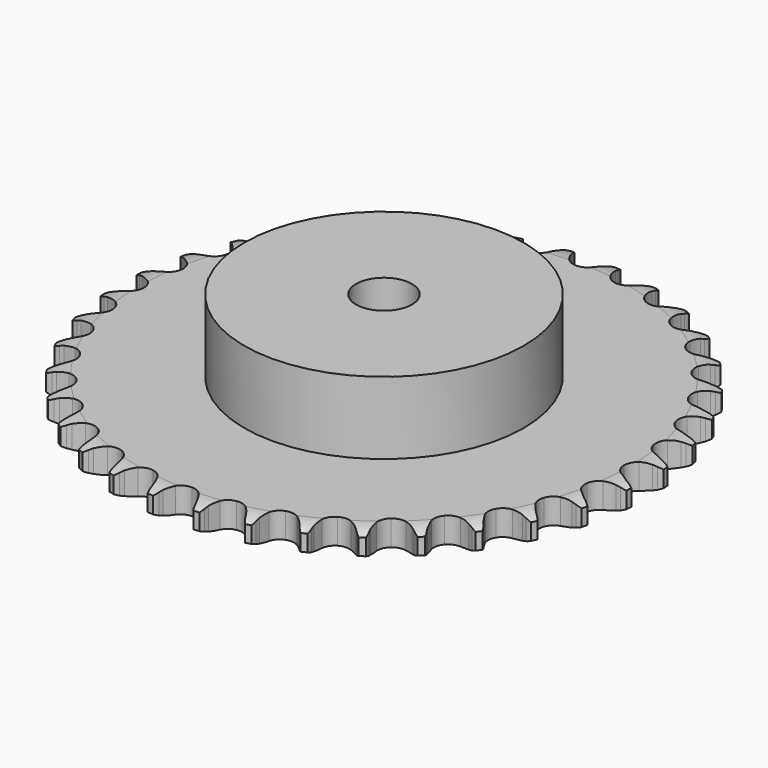
from build123d import *

# Parameters (mm, degrees)
PAD_DEPTH         = 9.1
SKETCH001_R       = 50
PAD001_DEPTH      = 35
SKETCH002_R       = 10
POCKET_DEPTH      = 0.001
POCKET_DEPTH_BACK = 35.001


with BuildPart() as part:
    # Sprocket → Pad (new body)
    with BuildSketch(Plane.XY):
        with BuildLine():
            ThreePointArc((-8.372787, 95.701394), (-7.235012, 94.299793), (-6.429379, 92.684252))
            Line((-6.429379, 92.684252), (-5.933775, 91.338848))
            ThreePointArc((-5.933775, 91.338848), (-5.149699, 89.605003), (-4.125721, 88.001114))
            ThreePointArc((-4.125721, 88.001114), (-2.308399, 86.476199), (0, 85.929099))
            ThreePointArc((0, 85.929099), (2.308399, 86.476199), (4.125721, 88.001114))
            ThreePointArc((4.125721, 88.001114), (5.149699, 89.605003), (5.933775, 91.338848))
            Line((5.933775, 91.338848), (6.429379, 92.684252))
            ThreePointArc((6.429379, 92.684252), (7.235012, 94.299793), (8.372787, 95.701394))
            ThreePointArc((8.372787, 95.701394), (9.249892, 94.123514), (9.762749, 92.39262))
            Line((9.762749, 92.39262), (10.017197, 90.981595))
            ThreePointArc((10.017197, 90.981595), (10.488282, 89.137938), (11.218191, 87.380603))
            ThreePointArc((11.218191, 87.380603), (12.743106, 85.563281), (14.921431, 84.623643))
            ThreePointArc((14.921431, 84.623643), (17.289763, 84.761582), (19.344275, 85.947755))
            Line((19.344275, 85.947755), (21.704452, 88.920817))
            ThreePointArc((21.704452, 88.920817), (22.04856, 89.550022), (22.426154, 90.15972))
            ThreePointArc((22.426154, 90.15972), (23.500083, 91.610821), (24.863958, 92.793556))
            ThreePointArc((24.863958, 92.793556), (25.453742, 91.08734), (25.658241, 89.293685))
            Line((25.658241, 89.293685), (25.663802, 87.859912))
            ThreePointArc((25.663802, 87.859912), (25.807582, 85.962461), (26.221244, 84.105077))
            ThreePointArc((26.221244, 84.105077), (27.407417, 82.050565), (29.389483, 80.74694))
            ThreePointArc((29.389483, 80.74694), (31.745787, 80.471528), (33.975063, 81.282918))
            Line((33.975063, 81.282918), (36.81565, 83.800971))
            ThreePointArc((36.81565, 83.800971), (37.263791, 84.360863), (37.741521, 84.89573))
            ThreePointArc((37.741521, 84.89573), (39.051116, 86.1383), (40.599651, 87.066232))
            ThreePointArc((40.599651, 87.066232), (40.884193, 85.283522), (40.77412, 83.481606))
            Line((40.77412, 83.481606), (40.530625, 82.06865))
            ThreePointArc((40.530625, 82.06865), (40.342732, 80.175059), (40.427578, 78.27406))
            ThreePointArc((40.427578, 78.27406), (41.238968, 76.044785), (42.964549, 74.416783))
            ThreePointArc((42.964549, 74.416783), (45.237232, 73.736386), (47.573536, 74.14834))
            Line((47.573536, 74.14834), (50.808224, 76.134876))
            ThreePointArc((50.808224, 76.134876), (51.34678, 76.608443), (51.910132, 77.052227))
            ThreePointArc((51.910132, 77.052227), (53.415601, 78.048511), (55.101743, 78.693445))
            ThreePointArc((55.101743, 78.693445), (55.072398, 76.888408), (54.651099, 75.132981))
            Line((54.651099, 75.132981), (54.165945, 73.783774))
            ThreePointArc((54.165945, 73.783774), (53.652088, 71.951577), (53.40554, 70.064726))
            ThreePointArc((53.40554, 70.064726), (53.817494, 67.728422), (55.23416, 65.825509))
            ThreePointArc((55.23416, 65.825509), (57.354165, 64.760802), (59.726511, 64.760802))
            Line((59.726511, 64.760802), (63.257015, 66.155461))
            ThreePointArc((63.257015, 66.155461), (63.869624, 66.528314), (64.501479, 66.867531))
            ThreePointArc((64.501479, 66.867531), (66.157079, 67.587257), (67.929597, 67.929597))
            ThreePointArc((67.929597, 67.929597), (67.587257, 66.157079), (66.867531, 64.501479))
            Line((66.867531, 64.501479), (66.155461, 63.257015))
            ThreePointArc((66.155461, 63.257015), (65.331252, 61.541884), (64.760802, 59.726511))
            ThreePointArc((64.760802, 59.726511), (64.760802, 57.354165), (65.825509, 55.23416))
            ThreePointArc((65.825509, 55.23416), (67.728422, 53.817494), (70.064726, 53.40554))
            Line((70.064726, 53.40554), (73.783774, 54.165945))
            ThreePointArc((73.783774, 54.165945), (74.451821, 54.426755), (75.132981, 54.651099))
            ThreePointArc((75.132981, 54.651099), (76.888408, 55.072398), (78.693445, 55.101743))
            ThreePointArc((78.693445, 55.101743), (78.048511, 53.415601), (77.052227, 51.910132))
            Line((77.052227, 51.910132), (76.134876, 50.808224))
            ThreePointArc((76.134876, 50.808224), (75.02536, 49.262272), (74.14834, 47.573536))
            ThreePointArc((74.14834, 47.573536), (73.736386, 45.237232), (74.416783, 42.964549))
            ThreePointArc((74.416783, 42.964549), (76.044785, 41.238968), (78.27406, 40.427578))
            Line((78.27406, 40.427578), (82.06865, 40.530625))
            ThreePointArc((82.06865, 40.530625), (82.771838, 40.671468), (83.481606, 40.77412))
            ThreePointArc((83.481606, 40.77412), (85.283522, 40.884193), (87.066232, 40.599651))
            ThreePointArc((87.066232, 40.599651), (86.1383, 39.051116), (84.89573, 37.741521))
            Line((84.89573, 37.741521), (83.800971, 36.81565))
            ThreePointArc((83.800971, 36.81565), (82.43986, 35.48585), (81.282918, 33.975063))
            ThreePointArc((81.282918, 33.975063), (80.471528, 31.745787), (80.74694, 29.389483))
            ThreePointArc((80.74694, 29.389483), (82.050565, 27.407417), (84.105077, 26.221244))
            Line((84.105077, 26.221244), (87.859912, 25.663802))
            ThreePointArc((87.859912, 25.663802), (88.576874, 25.680398), (89.293685, 25.658241))
            ThreePointArc((89.293685, 25.658241), (91.08734, 25.453742), (92.793556, 24.863958))
            ThreePointArc((92.793556, 24.863958), (91.610821, 23.500083), (90.15972, 22.426154))
            Line((90.15972, 22.426154), (88.920817, 21.704452))
            ThreePointArc((88.920817, 21.704452), (87.349466, 20.631209), (85.947755, 19.344275))
            ThreePointArc((85.947755, 19.344275), (84.761582, 17.289763), (84.623643, 14.921431))
            ThreePointArc((84.623643, 14.921431), (85.563281, 12.743106), (87.380603, 11.218191))
            Line((87.380603, 11.218191), (90.981595, 10.017197))
            ThreePointArc((90.981595, 10.017197), (91.690546, 9.909042), (92.39262, 9.762749))
            ThreePointArc((92.39262, 9.762749), (94.123514, 9.249892), (95.701394, 8.372787))
            ThreePointArc((95.701394, 8.372787), (94.299793, 7.235012), (92.684252, 6.429379))
            Line((92.684252, 6.429379), (91.338848, 5.933775))
            ThreePointArc((91.338848, 5.933775), (89.605003, 5.149699), (88.001114, 4.125721))
            ThreePointArc((88.001114, 4.125721), (86.476199, 2.308399), (85.929099, 0))
            ThreePointArc((85.929099, 0), (86.476199, -2.308399), (88.001114, -4.125721))
            Line((88.001114, -4.125721), (91.338848, -5.933775))
            ThreePointArc((91.338848, -5.933775), (92.018248, -6.163395), (92.684252, -6.429379))
            ThreePointArc((92.684252, -6.429379), (94.299793, -7.235012), (95.701394, -8.372787))
            ThreePointArc((95.701394, -8.372787), (94.123514, -9.249892), (92.39262, -9.762749))
            Line((92.39262, -9.762749), (90.981595, -10.017197))
            ThreePointArc((90.981595, -10.017197), (89.137938, -10.488282), (87.380603, -11.218191))
            ThreePointArc((87.380603, -11.218191), (85.563281, -12.743106), (84.623643, -14.921431))
            ThreePointArc((84.623643, -14.921431), (84.761582, -17.289763), (85.947755, -19.344275))
            Line((85.947755, -19.344275), (88.920817, -21.704452))
            ThreePointArc((88.920817, -21.704452), (89.550022, -22.04856), (90.15972, -22.426154))
            ThreePointArc((90.15972, -22.426154), (91.610821, -23.500083), (92.793556, -24.863958))
            ThreePointArc((92.793556, -24.863958), (91.08734, -25.453742), (89.293685, -25.658241))
            Line((89.293685, -25.658241), (87.859912, -25.663802))
            ThreePointArc((87.859912, -25.663802), (85.962461, -25.807582), (84.105077, -26.221244))
            ThreePointArc((84.105077, -26.221244), (82.050565, -27.407417), (80.74694, -29.389483))
            ThreePointArc((80.74694, -29.389483), (80.471528, -31.745787), (81.282918, -33.975063))
            Line((81.282918, -33.975063), (83.800971, -36.81565))
            ThreePointArc((83.800971, -36.81565), (84.360863, -37.263791), (84.89573, -37.741521))
            ThreePointArc((84.89573, -37.741521), (86.1383, -39.051116), (87.066232, -40.599651))
            ThreePointArc((87.066232, -40.599651), (85.283522, -40.884193), (83.481606, -40.77412))
            Line((83.481606, -40.77412), (82.06865, -40.530625))
            ThreePointArc((82.06865, -40.530625), (80.175059, -40.342732), (78.27406, -40.427578))
            ThreePointArc((78.27406, -40.427578), (76.044785, -41.238968), (74.416783, -42.964549))
            ThreePointArc((74.416783, -42.964549), (73.736386, -45.237232), (74.14834, -47.573536))
            Line((74.14834, -47.573536), (76.134876, -50.808224))
            ThreePointArc((76.134876, -50.808224), (76.608443, -51.34678), (77.052227, -51.910132))
            ThreePointArc((77.052227, -51.910132), (78.048511, -53.415601), (78.693445, -55.101743))
            ThreePointArc((78.693445, -55.101743), (76.888408, -55.072398), (75.132981, -54.651099))
            Line((75.132981, -54.651099), (73.783774, -54.165945))
            ThreePointArc((73.783774, -54.165945), (71.951577, -53.652088), (70.064726, -53.40554))
            ThreePointArc((70.064726, -53.40554), (67.728422, -53.817494), (65.825509, -55.23416))
            ThreePointArc((65.825509, -55.23416), (64.760802, -57.354165), (64.760802, -59.726511))
            Line((64.760802, -59.726511), (66.155461, -63.257015))
            ThreePointArc((66.155461, -63.257015), (66.528314, -63.869624), (66.867531, -64.501479))
            ThreePointArc((66.867531, -64.501479), (67.587257, -66.157079), (67.929597, -67.929597))
            ThreePointArc((67.929597, -67.929597), (66.157079, -67.587257), (64.501479, -66.867531))
            Line((64.501479, -66.867531), (63.257015, -66.155461))
            ThreePointArc((63.257015, -66.155461), (61.541884, -65.331252), (59.726511, -64.760802))
            ThreePointArc((59.726511, -64.760802), (57.354165, -64.760802), (55.23416, -65.825509))
            ThreePointArc((55.23416, -65.825509), (53.817494, -67.728422), (53.40554, -70.064726))
            Line((53.40554, -70.064726), (54.165945, -73.783774))
            ThreePointArc((54.165945, -73.783774), (54.426755, -74.451821), (54.651099, -75.132981))
            ThreePointArc((54.651099, -75.132981), (55.072398, -76.888408), (55.101743, -78.693445))
            ThreePointArc((55.101743, -78.693445), (53.415601, -78.048511), (51.910132, -77.052227))
            Line((51.910132, -77.052227), (50.808224, -76.134876))
            ThreePointArc((50.808224, -76.134876), (49.262272, -75.02536), (47.573536, -74.14834))
            ThreePointArc((47.573536, -74.14834), (45.237232, -73.736386), (42.964549, -74.416783))
            ThreePointArc((42.964549, -74.416783), (41.238968, -76.044785), (40.427578, -78.27406))
            Line((40.427578, -78.27406), (40.530625, -82.06865))
            ThreePointArc((40.530625, -82.06865), (40.671468, -82.771838), (40.77412, -83.481606))
            ThreePointArc((40.77412, -83.481606), (40.884193, -85.283522), (40.599651, -87.066232))
            ThreePointArc((40.599651, -87.066232), (39.051116, -86.1383), (37.741521, -84.89573))
            Line((37.741521, -84.89573), (36.81565, -83.800971))
            ThreePointArc((36.81565, -83.800971), (35.48585, -82.43986), (33.975063, -81.282918))
            ThreePointArc((33.975063, -81.282918), (31.745787, -80.471528), (29.389483, -80.74694))
            ThreePointArc((29.389483, -80.74694), (27.407417, -82.050565), (26.221244, -84.105077))
            Line((26.221244, -84.105077), (25.663802, -87.859912))
            ThreePointArc((25.663802, -87.859912), (25.680398, -88.576874), (25.658241, -89.293685))
            ThreePointArc((25.658241, -89.293685), (25.453742, -91.08734), (24.863958, -92.793556))
            ThreePointArc((24.863958, -92.793556), (23.500083, -91.610821), (22.426154, -90.15972))
            Line((22.426154, -90.15972), (21.704452, -88.920817))
            ThreePointArc((21.704452, -88.920817), (20.631209, -87.349466), (19.344275, -85.947755))
            ThreePointArc((19.344275, -85.947755), (17.289763, -84.761582), (14.921431, -84.623643))
            ThreePointArc((14.921431, -84.623643), (12.743106, -85.563281), (11.218191, -87.380603))
            Line((11.218191, -87.380603), (10.017197, -90.981595))
            ThreePointArc((10.017197, -90.981595), (9.909042, -91.690546), (9.762749, -92.39262))
            ThreePointArc((9.762749, -92.39262), (9.249892, -94.123514), (8.372787, -95.701394))
            ThreePointArc((8.372787, -95.701394), (7.235012, -94.299793), (6.429379, -92.684252))
            Line((6.429379, -92.684252), (5.933775, -91.338848))
            ThreePointArc((5.933775, -91.338848), (5.149699, -89.605003), (4.125721, -88.001114))
            ThreePointArc((4.125721, -88.001114), (2.308399, -86.476199), (0, -85.929099))
            ThreePointArc((0, -85.929099), (-2.308399, -86.476199), (-4.125721, -88.001114))
            Line((-4.125721, -88.001114), (-5.933775, -91.338848))
            ThreePointArc((-5.933775, -91.338848), (-6.163395, -92.018248), (-6.429379, -92.684252))
            ThreePointArc((-6.429379, -92.684252), (-7.235012, -94.299793), (-8.372787, -95.701394))
            ThreePointArc((-8.372787, -95.701394), (-9.249892, -94.123514), (-9.762749, -92.39262))
            Line((-9.762749, -92.39262), (-10.017197, -90.981595))
            ThreePointArc((-10.017197, -90.981595), (-10.488282, -89.137938), (-11.218191, -87.380603))
            ThreePointArc((-11.218191, -87.380603), (-12.743106, -85.563281), (-14.921431, -84.623643))
            ThreePointArc((-14.921431, -84.623643), (-17.289763, -84.761582), (-19.344275, -85.947755))
            Line((-19.344275, -85.947755), (-21.704452, -88.920817))
            ThreePointArc((-21.704452, -88.920817), (-22.04856, -89.550022), (-22.426154, -90.15972))
            ThreePointArc((-22.426154, -90.15972), (-23.500083, -91.610821), (-24.863958, -92.793556))
            ThreePointArc((-24.863958, -92.793556), (-25.453742, -91.08734), (-25.658241, -89.293685))
            Line((-25.658241, -89.293685), (-25.663802, -87.859912))
            ThreePointArc((-25.663802, -87.859912), (-25.807582, -85.962461), (-26.221244, -84.105077))
            ThreePointArc((-26.221244, -84.105077), (-27.407417, -82.050565), (-29.389483, -80.74694))
            ThreePointArc((-29.389483, -80.74694), (-31.745787, -80.471528), (-33.975063, -81.282918))
            Line((-33.975063, -81.282918), (-36.81565, -83.800971))
            ThreePointArc((-36.81565, -83.800971), (-37.263791, -84.360863), (-37.741521, -84.89573))
            ThreePointArc((-37.741521, -84.89573), (-39.051116, -86.1383), (-40.599651, -87.066232))
            ThreePointArc((-40.599651, -87.066232), (-40.884193, -85.283522), (-40.77412, -83.481606))
            Line((-40.77412, -83.481606), (-40.530625, -82.06865))
            ThreePointArc((-40.530625, -82.06865), (-40.342732, -80.175059), (-40.427578, -78.27406))
            ThreePointArc((-40.427578, -78.27406), (-41.238968, -76.044785), (-42.964549, -74.416783))
            ThreePointArc((-42.964549, -74.416783), (-45.237232, -73.736386), (-47.573536, -74.14834))
            Line((-47.573536, -74.14834), (-50.808224, -76.134876))
            ThreePointArc((-50.808224, -76.134876), (-51.34678, -76.608443), (-51.910132, -77.052227))
            ThreePointArc((-51.910132, -77.052227), (-53.415601, -78.048511), (-55.101743, -78.693445))
            ThreePointArc((-55.101743, -78.693445), (-55.072398, -76.888408), (-54.651099, -75.132981))
            Line((-54.651099, -75.132981), (-54.165945, -73.783774))
            ThreePointArc((-54.165945, -73.783774), (-53.652088, -71.951577), (-53.40554, -70.064726))
            ThreePointArc((-53.40554, -70.064726), (-53.817494, -67.728422), (-55.23416, -65.825509))
            ThreePointArc((-55.23416, -65.825509), (-57.354165, -64.760802), (-59.726511, -64.760802))
            Line((-59.726511, -64.760802), (-63.257015, -66.155461))
            ThreePointArc((-63.257015, -66.155461), (-63.869624, -66.528314), (-64.501479, -66.867531))
            ThreePointArc((-64.501479, -66.867531), (-66.157079, -67.587257), (-67.929597, -67.929597))
            ThreePointArc((-67.929597, -67.929597), (-67.587257, -66.157079), (-66.867531, -64.501479))
            Line((-66.867531, -64.501479), (-66.155461, -63.257015))
            ThreePointArc((-66.155461, -63.257015), (-65.331252, -61.541884), (-64.760802, -59.726511))
            ThreePointArc((-64.760802, -59.726511), (-64.760802, -57.354165), (-65.825509, -55.23416))
            ThreePointArc((-65.825509, -55.23416), (-67.728422, -53.817494), (-70.064726, -53.40554))
            Line((-70.064726, -53.40554), (-73.783774, -54.165945))
            ThreePointArc((-73.783774, -54.165945), (-74.451821, -54.426755), (-75.132981, -54.651099))
            ThreePointArc((-75.132981, -54.651099), (-76.888408, -55.072398), (-78.693445, -55.101743))
            ThreePointArc((-78.693445, -55.101743), (-78.048511, -53.415601), (-77.052227, -51.910132))
            Line((-77.052227, -51.910132), (-76.134876, -50.808224))
            ThreePointArc((-76.134876, -50.808224), (-75.02536, -49.262272), (-74.14834, -47.573536))
            ThreePointArc((-74.14834, -47.573536), (-73.736386, -45.237232), (-74.416783, -42.964549))
            ThreePointArc((-74.416783, -42.964549), (-76.044785, -41.238968), (-78.27406, -40.427578))
            Line((-78.27406, -40.427578), (-82.06865, -40.530625))
            ThreePointArc((-82.06865, -40.530625), (-82.771838, -40.671468), (-83.481606, -40.77412))
            ThreePointArc((-83.481606, -40.77412), (-85.283522, -40.884193), (-87.066232, -40.599651))
            ThreePointArc((-87.066232, -40.599651), (-86.1383, -39.051116), (-84.89573, -37.741521))
            Line((-84.89573, -37.741521), (-83.800971, -36.81565))
            ThreePointArc((-83.800971, -36.81565), (-82.43986, -35.48585), (-81.282918, -33.975063))
            ThreePointArc((-81.282918, -33.975063), (-80.471528, -31.745787), (-80.74694, -29.389483))
            ThreePointArc((-80.74694, -29.389483), (-82.050565, -27.407417), (-84.105077, -26.221244))
            Line((-84.105077, -26.221244), (-87.859912, -25.663802))
            ThreePointArc((-87.859912, -25.663802), (-88.576874, -25.680398), (-89.293685, -25.658241))
            ThreePointArc((-89.293685, -25.658241), (-91.08734, -25.453742), (-92.793556, -24.863958))
            ThreePointArc((-92.793556, -24.863958), (-91.610821, -23.500083), (-90.15972, -22.426154))
            Line((-90.15972, -22.426154), (-88.920817, -21.704452))
            ThreePointArc((-88.920817, -21.704452), (-87.349466, -20.631209), (-85.947755, -19.344275))
            ThreePointArc((-85.947755, -19.344275), (-84.761582, -17.289763), (-84.623643, -14.921431))
            ThreePointArc((-84.623643, -14.921431), (-85.563281, -12.743106), (-87.380603, -11.218191))
            Line((-87.380603, -11.218191), (-90.981595, -10.017197))
            ThreePointArc((-90.981595, -10.017197), (-91.690546, -9.909042), (-92.39262, -9.762749))
            ThreePointArc((-92.39262, -9.762749), (-94.123514, -9.249892), (-95.701394, -8.372787))
            ThreePointArc((-95.701394, -8.372787), (-94.299793, -7.235012), (-92.684252, -6.429379))
            Line((-92.684252, -6.429379), (-91.338848, -5.933775))
            ThreePointArc((-91.338848, -5.933775), (-89.605003, -5.149699), (-88.001114, -4.125721))
            ThreePointArc((-88.001114, -4.125721), (-86.476199, -2.308399), (-85.929099, 0))
            ThreePointArc((-85.929099, 0), (-86.476199, 2.308399), (-88.001114, 4.125721))
            Line((-88.001114, 4.125721), (-91.338848, 5.933775))
            ThreePointArc((-91.338848, 5.933775), (-92.018248, 6.163395), (-92.684252, 6.429379))
            ThreePointArc((-92.684252, 6.429379), (-94.299793, 7.235012), (-95.701394, 8.372787))
            ThreePointArc((-95.701394, 8.372787), (-94.123514, 9.249892), (-92.39262, 9.762749))
            Line((-92.39262, 9.762749), (-90.981595, 10.017197))
            ThreePointArc((-90.981595, 10.017197), (-89.137938, 10.488282), (-87.380603, 11.218191))
            ThreePointArc((-87.380603, 11.218191), (-85.563281, 12.743106), (-84.623643, 14.921431))
            ThreePointArc((-84.623643, 14.921431), (-84.761582, 17.289763), (-85.947755, 19.344275))
            Line((-85.947755, 19.344275), (-88.920817, 21.704452))
            ThreePointArc((-88.920817, 21.704452), (-89.550022, 22.04856), (-90.15972, 22.426154))
            ThreePointArc((-90.15972, 22.426154), (-91.610821, 23.500083), (-92.793556, 24.863958))
            ThreePointArc((-92.793556, 24.863958), (-91.08734, 25.453742), (-89.293685, 25.658241))
            Line((-89.293685, 25.658241), (-87.859912, 25.663802))
            ThreePointArc((-87.859912, 25.663802), (-85.962461, 25.807582), (-84.105077, 26.221244))
            ThreePointArc((-84.105077, 26.221244), (-82.050565, 27.407417), (-80.74694, 29.389483))
            ThreePointArc((-80.74694, 29.389483), (-80.471528, 31.745787), (-81.282918, 33.975063))
            Line((-81.282918, 33.975063), (-83.800971, 36.81565))
            ThreePointArc((-83.800971, 36.81565), (-84.360863, 37.263791), (-84.89573, 37.741521))
            ThreePointArc((-84.89573, 37.741521), (-86.1383, 39.051116), (-87.066232, 40.599651))
            ThreePointArc((-87.066232, 40.599651), (-85.283522, 40.884193), (-83.481606, 40.77412))
            Line((-83.481606, 40.77412), (-82.06865, 40.530625))
            ThreePointArc((-82.06865, 40.530625), (-80.175059, 40.342732), (-78.27406, 40.427578))
            ThreePointArc((-78.27406, 40.427578), (-76.044785, 41.238968), (-74.416783, 42.964549))
            ThreePointArc((-74.416783, 42.964549), (-73.736386, 45.237232), (-74.14834, 47.573536))
            Line((-74.14834, 47.573536), (-76.134876, 50.808224))
            ThreePointArc((-76.134876, 50.808224), (-76.608443, 51.34678), (-77.052227, 51.910132))
            ThreePointArc((-77.052227, 51.910132), (-78.048511, 53.415601), (-78.693445, 55.101743))
            ThreePointArc((-78.693445, 55.101743), (-76.888408, 55.072398), (-75.132981, 54.651099))
            Line((-75.132981, 54.651099), (-73.783774, 54.165945))
            ThreePointArc((-73.783774, 54.165945), (-71.951577, 53.652088), (-70.064726, 53.40554))
            ThreePointArc((-70.064726, 53.40554), (-67.728422, 53.817494), (-65.825509, 55.23416))
            ThreePointArc((-65.825509, 55.23416), (-64.760802, 57.354165), (-64.760802, 59.726511))
            Line((-64.760802, 59.726511), (-66.155461, 63.257015))
            ThreePointArc((-66.155461, 63.257015), (-66.528314, 63.869624), (-66.867531, 64.501479))
            ThreePointArc((-66.867531, 64.501479), (-67.587257, 66.157079), (-67.929597, 67.929597))
            ThreePointArc((-67.929597, 67.929597), (-66.157079, 67.587257), (-64.501479, 66.867531))
            Line((-64.501479, 66.867531), (-63.257015, 66.155461))
            ThreePointArc((-63.257015, 66.155461), (-61.541884, 65.331252), (-59.726511, 64.760802))
            ThreePointArc((-59.726511, 64.760802), (-57.354165, 64.760802), (-55.23416, 65.825509))
            ThreePointArc((-55.23416, 65.825509), (-53.817494, 67.728422), (-53.40554, 70.064726))
            Line((-53.40554, 70.064726), (-54.165945, 73.783774))
            ThreePointArc((-54.165945, 73.783774), (-54.426755, 74.451821), (-54.651099, 75.132981))
            ThreePointArc((-54.651099, 75.132981), (-55.072398, 76.888408), (-55.101743, 78.693445))
            ThreePointArc((-55.101743, 78.693445), (-53.415601, 78.048511), (-51.910132, 77.052227))
            Line((-51.910132, 77.052227), (-50.808224, 76.134876))
            ThreePointArc((-50.808224, 76.134876), (-49.262272, 75.02536), (-47.573536, 74.14834))
            ThreePointArc((-47.573536, 74.14834), (-45.237232, 73.736386), (-42.964549, 74.416783))
            ThreePointArc((-42.964549, 74.416783), (-41.238968, 76.044785), (-40.427578, 78.27406))
            Line((-40.427578, 78.27406), (-40.530625, 82.06865))
            ThreePointArc((-40.530625, 82.06865), (-40.671468, 82.771838), (-40.77412, 83.481606))
            ThreePointArc((-40.77412, 83.481606), (-40.884193, 85.283522), (-40.599651, 87.066232))
            ThreePointArc((-40.599651, 87.066232), (-39.051116, 86.1383), (-37.741521, 84.89573))
            Line((-37.741521, 84.89573), (-36.81565, 83.800971))
            ThreePointArc((-36.81565, 83.800971), (-35.48585, 82.43986), (-33.975063, 81.282918))
            ThreePointArc((-33.975063, 81.282918), (-31.745787, 80.471528), (-29.389483, 80.74694))
            ThreePointArc((-29.389483, 80.74694), (-27.407417, 82.050565), (-26.221244, 84.105077))
            Line((-26.221244, 84.105077), (-25.663802, 87.859912))
            ThreePointArc((-25.663802, 87.859912), (-25.680398, 88.576874), (-25.658241, 89.293685))
            ThreePointArc((-25.658241, 89.293685), (-25.453742, 91.08734), (-24.863958, 92.793556))
            ThreePointArc((-24.863958, 92.793556), (-23.500083, 91.610821), (-22.426154, 90.15972))
            Line((-22.426154, 90.15972), (-21.704452, 88.920817))
            ThreePointArc((-21.704452, 88.920817), (-20.631209, 87.349466), (-19.344275, 85.947755))
            ThreePointArc((-19.344275, 85.947755), (-17.289763, 84.761582), (-14.921431, 84.623643))
            ThreePointArc((-14.921431, 84.623643), (-12.743106, 85.563281), (-11.218191, 87.380603))
            Line((-11.218191, 87.380603), (-10.017197, 90.981595))
            ThreePointArc((-10.017197, 90.981595), (-9.909042, 91.690546), (-9.762749, 92.39262))
            ThreePointArc((-9.762749, 92.39262), (-9.249892, 94.123514), (-8.372787, 95.701394))
        make_face()
    extrude(amount=PAD_DEPTH)

    # Sketch → Groove (revolve, cut)
    with BuildSketch(Plane.XZ):
        with BuildLine():
            Line((87.575762, 0), (94.55, 0))
            Line((101.524238, 0), (94.55, 0))
            Line((101.524238, 9.1), (101.524238, 0))
            Line((94.55, 9.1), (101.524238, 9.1))
            Line((87.575762, 9.1), (94.55, 9.1))
            ThreePointArc((94.55, 7.5), (91.15347, 8.694871), (87.575762, 9.1))
            Line((94.55, 1.6), (94.55, 7.5))
            ThreePointArc((87.575762, 0), (91.15347, 0.405129), (94.55, 1.6))
        make_face()
    revolve(axis=Axis((0, 0, 0), (0, 0, 1)), mode=Mode.SUBTRACT)

    # Sketch001 → Pad001 (join)
    with BuildSketch(Plane.XY):
        Circle(SKETCH001_R)
    extrude(amount=PAD001_DEPTH)

    # Sketch002 → Pocket (cut, two sides)
    with BuildSketch(Plane.XY) as pocket_sk:
        Circle(SKETCH002_R)
    extrude(amount=-POCKET_DEPTH, mode=Mode.SUBTRACT)
    extrude(pocket_sk.sketch, amount=POCKET_DEPTH_BACK, mode=Mode.SUBTRACT)


solid = part.part
